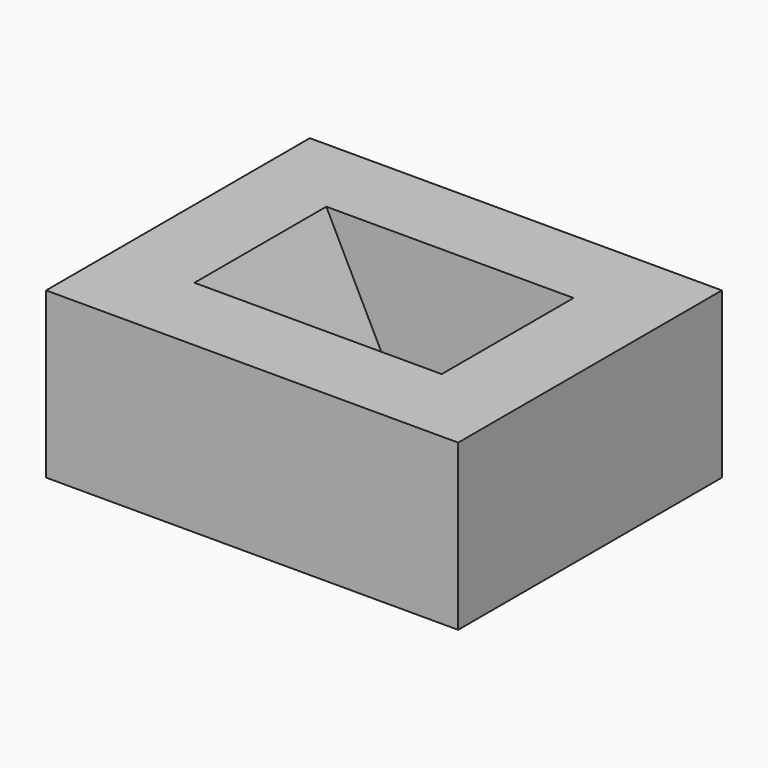
from build123d import *

# Parameters (mm, degrees)
F0_W     = 50
F0_H     = 40
F1_DEPTH = 20
F2_W     = 30
F2_H     = 20
F3_DEPTH = 20
F5_DEPTH = 20


with BuildPart() as f1:
    # F0 (on Top) → F1 (new body)
    with BuildSketch(Plane.XY):
        with Locations((25, 20)):
            Rectangle(F0_W, F0_H)
    extrude(amount=F1_DEPTH)

    # F2 (on face) → F3 (cut)
    with BuildSketch(Plane.XY.offset(20)):
        with Locations((25, 20)):
            Rectangle(F2_W, F2_H)
    extrude(amount=-F3_DEPTH, mode=Mode.SUBTRACT)

    # F4 (on face) → F5 (join)
    with BuildSketch(Plane.XZ.offset(-30)):
        Polygon((20, 0), (10, 20), (10, 0), align=None)
    extrude(amount=F5_DEPTH)


solid = f1.part
